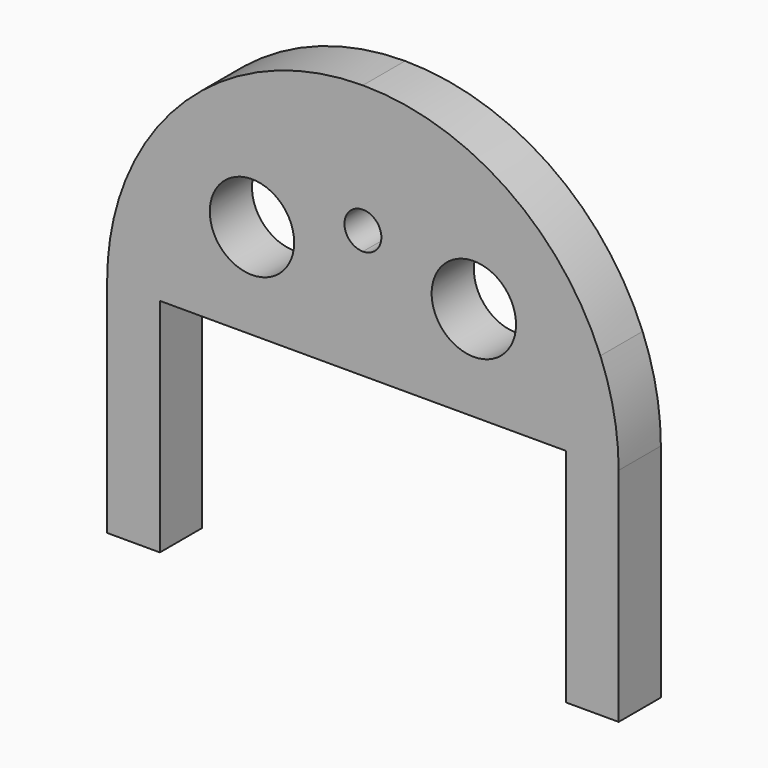
from build123d import *

# Parameters (mm, degrees)
F1_DEPTH = 5
F2_R     = 1
F3_DEPTH = 10


with BuildPart() as f1:
    # F0 (on Front) → F1 (new body)
    with BuildSketch(Plane.XZ):
        with BuildLine():
            ThreePointArc((22.518048, 30), (13.598024, 41.078751), (0, 45.25))
            Line((0, 45.25), (0, 34.875))
            ThreePointArc((0, 34.875), (1.237437, 34.362437), (1.75, 33.125))
            ThreePointArc((1.75, 33.125), (1.237437, 31.887563), (0, 31.375))
            Line((0, 31.375), (0, 30))
            Line((0, 30), (6.518048, 30))
            ThreePointArc((6.518048, 30), (10.518048, 34), (14.518048, 30))
            Line((14.518048, 30), (22.518048, 30))
        make_face()
        with BuildLine():
            ThreePointArc((0, 45.25), (-13.598024, 41.078751), (-22.518048, 30))
            Line((-22.518048, 30), (-14.518048, 30))
            ThreePointArc((-14.518048, 30), (-10.518048, 34), (-6.518048, 30))
            Line((-6.518048, 30), (0, 30))
            Line((0, 30), (0, 31.375))
            ThreePointArc((0, 31.375), (-1.75, 33.125), (0, 34.875))
            Line((0, 34.875), (0, 45.25))
        make_face()
        with BuildLine():
            Line((0, 30), (0, 21))
            Line((0, 21), (19.25, 21))
            Line((19.25, 21), (19.25, 0))
            Line((19.25, 0), (24.25, 0))
            Line((24.25, 0), (24.25, 21))
            ThreePointArc((24.25, 21), (23.813076, 25.582566), (22.518048, 30))
            Line((22.518048, 30), (14.518048, 30))
            ThreePointArc((14.518048, 30), (10.518048, 26), (6.518048, 30))
            Line((6.518048, 30), (0, 30))
        make_face()
        with BuildLine():
            Line((-24.25, 21), (-24.25, 0))
            Line((-24.25, 0), (-19.25, 0))
            Line((-19.25, 0), (-19.25, 21))
            Line((-19.25, 21), (0, 21))
            Line((0, 21), (0, 30))
            Line((0, 30), (-6.518048, 30))
            ThreePointArc((-6.518048, 30), (-10.518048, 26), (-14.518048, 30))
            Line((-14.518048, 30), (-22.518048, 30))
            ThreePointArc((-22.518048, 30), (-23.813076, 25.582566), (-24.25, 21))
        make_face()
    extrude(amount=F1_DEPTH)

    # F2 (on Top) → F3 (cut)
    with BuildSketch(Plane.XY):
        with Locations((21.75, -2.5)):
            Circle(F2_R)
        with Locations((-21.75, -2.5)):
            Circle(F2_R)
    extrude(amount=F3_DEPTH, mode=Mode.SUBTRACT)


solid = f1.part
